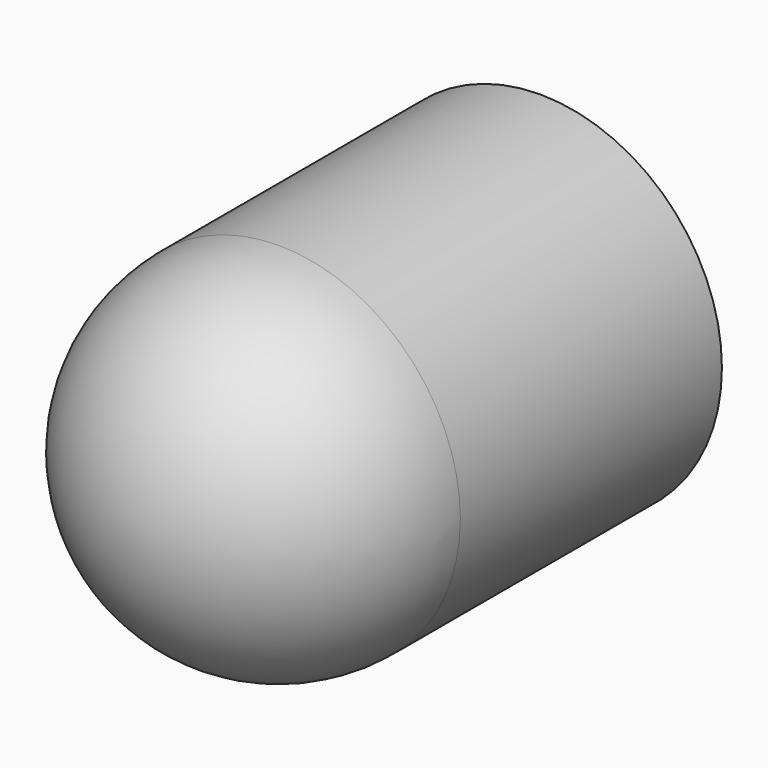
from build123d import *

# Parameters (mm, degrees)
F0_R     = 2.5
F1_DEPTH = 7
F2_R     = 2.5


with BuildPart() as f1:
    # F0 (on Front) → F1 (new body)
    with BuildSketch(Plane.XZ):
        Circle(F0_R)
        Circle(F0_R)
    extrude(amount=F1_DEPTH)

    # F2
    f2_edges = [f1.edges().sort_by_distance(p)[0] for p in [
        (-2.5, -7, 0),
    ]]
    fillet(f2_edges, radius=F2_R)


solid = f1.part
